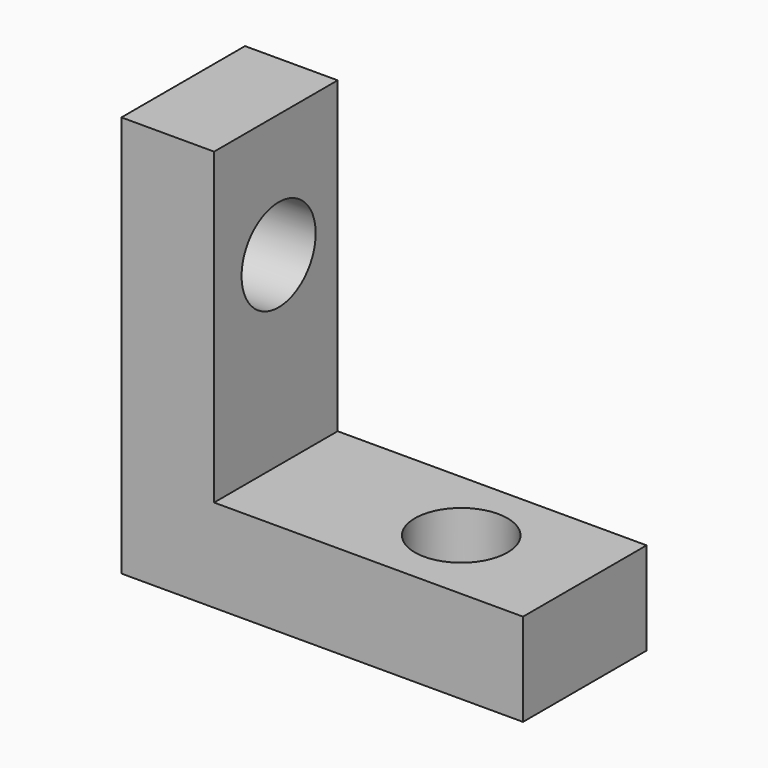
from build123d import *

# Parameters (mm, degrees)
SKETCH_W     = 13
SKETCH_H     = 5
SKETCH_R     = 1.5
PAD_DEPTH    = 3
SKETCH001_W  = 3
SKETCH001_H  = 5
PAD001_DEPTH = 10
SKETCH002_R  = 1.5
POCKET_DEPTH = 13.001


with BuildPart() as part:
    # Sketch → Pad (new body)
    with BuildSketch(Plane.XY):
        with Locations((6.5, 2.5)):
            Rectangle(SKETCH_W, SKETCH_H)
        with Locations((9, 2.5)):
            Circle(SKETCH_R, mode=Mode.SUBTRACT)
    extrude(amount=PAD_DEPTH)

    # Sketch001 → Pad001 (new body)
    with BuildSketch(Plane.XY.offset(3)):
        with Locations((1.5, 2.5)):
            Rectangle(SKETCH001_W, SKETCH001_H)
    extrude(amount=PAD001_DEPTH)

    # Sketch002 → Pocket (cut, through all)
    with BuildSketch(Plane(origin=(0, 0, 0), x_dir=(0, -1, 0), z_dir=(-1, 0, 0))):
        with Locations((-2.610739, 9)):
            Circle(SKETCH002_R)
    extrude(amount=-POCKET_DEPTH, mode=Mode.SUBTRACT)


solid = part.part
